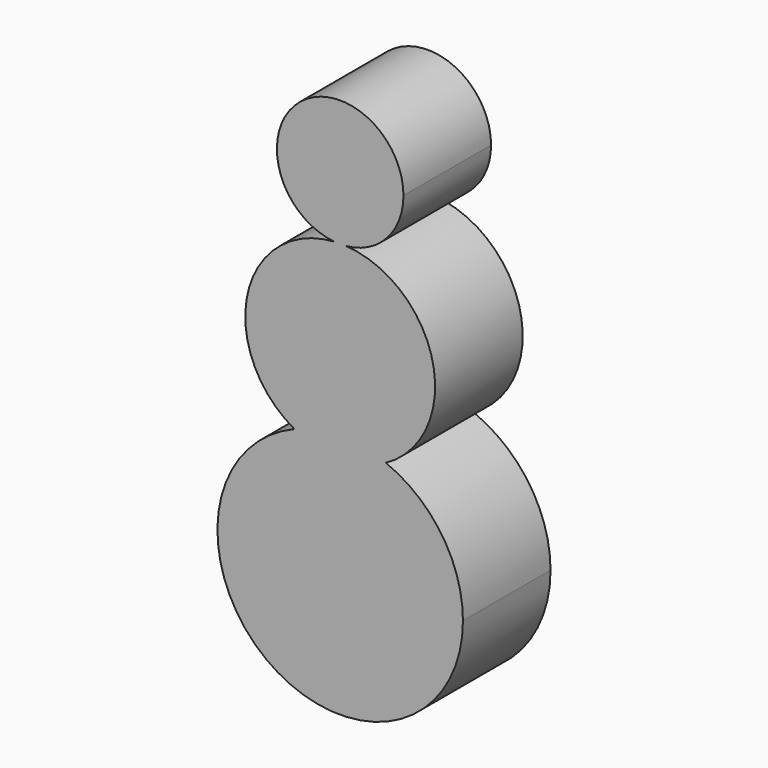
from build123d import *

# Parameters (mm, degrees)
F1_DEPTH = 25.4


with BuildPart() as f1:
    # F0 (on Front) → F1 (new body)
    with BuildSketch(Plane.XZ):
        with BuildLine():
            ThreePointArc((1.281621129, -14.6216553688), (10.8223525607, -9.9152429872), (14.6777163906, 0))
            ThreePointArc((14.6777163906, 0), (-9.9152429872, 10.8223525607), (-1.281621129, -14.6216553688))
            ThreePointArc((-1.281621129, -14.6216553688), (0, -14.5843201005), (1.281621129, -14.6216553688))
        make_face()
        with BuildLine():
            ThreePointArc((1.281621129, -14.6216553688), (0, -14.5843201005), (-1.281621129, -14.6216553688))
            ThreePointArc((-1.281621129, -14.6216553688), (0, -14.6777163906), (1.281621129, -14.6216553688))
        make_face()
        with BuildLine():
            ThreePointArc((1.281621129, -14.6216553688), (0, -14.6777163906), (-1.281621129, -14.6216553688))
            ThreePointArc((-1.281621129, -14.6216553688), (-21.4748376357, -31.7489642451), (-10.6053259906, -55.8936203584))
            ThreePointArc((-10.6053259906, -55.8936203584), (0, -53.8447494391), (10.6053259906, -55.8936203584))
            ThreePointArc((10.6053259906, -55.8936203584), (18.9498178248, -47.8078512952), (22.0160014308, -36.6003215313))
            ThreePointArc((22.0160014308, -36.6003215313), (16.0143762228, -21.4925727515), (1.281621129, -14.6216553688))
        make_face()
        with BuildLine():
            ThreePointArc((10.6053259906, -55.8936203584), (0, -53.8447494391), (-10.6053259906, -55.8936203584))
            ThreePointArc((-10.6053259906, -55.8936203584), (0, -58.6163229621), (10.6053259906, -55.8936203584))
        make_face()
        with BuildLine():
            ThreePointArc((10.6053259906, -55.8936203584), (0, -58.6163229621), (-10.6053259906, -55.8936203584))
            ThreePointArc((-10.6053259906, -55.8936203584), (-15.9483365423, -105.9028248142), (28.4719770071, -82.3167264462))
            ThreePointArc((28.4719770071, -82.3167264462), (23.586098368, -66.3683899038), (10.6053259906, -55.8936203584))
        make_face()
    extrude(amount=F1_DEPTH)


solid = f1.part
